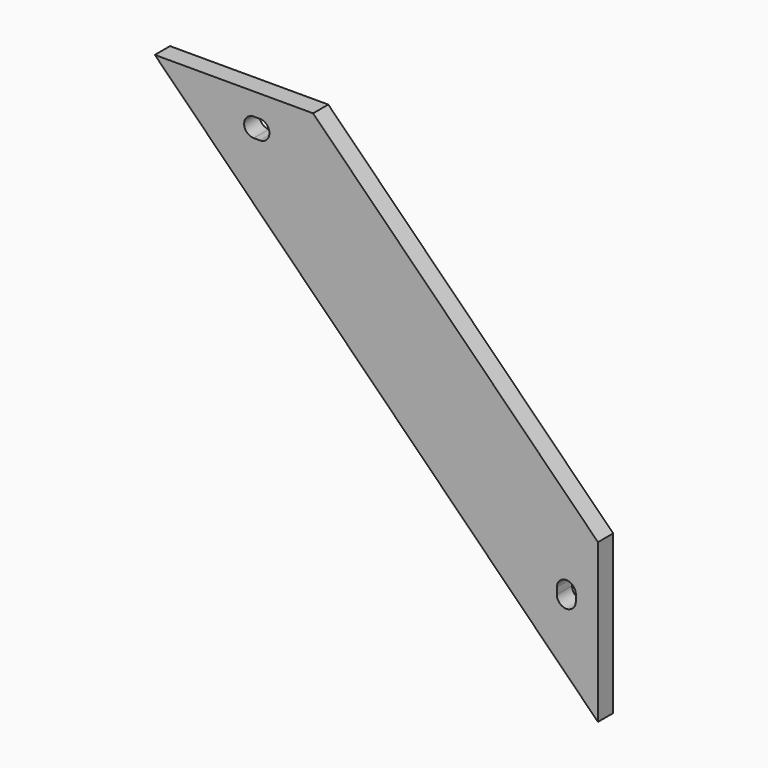
from build123d import *

# Parameters (mm, degrees)
F1_DEPTH = 6


with BuildPart() as f1:
    # F0 (on Front) → F1 (new body)
    with BuildSketch(Plane.XZ):
        Polygon((65.621033, -11.750089), (65.621033, 38.249911), (-24.378967, 128.249911), (-74.378967, 128.249911), align=None)
        with BuildLine():
            ThreePointArc((52.621032, 21.463115), (55.621032, 24.463115), (58.621032, 21.463115))
            Line((58.621032, 21.463115), (58.621032, 19.463115))
            ThreePointArc((58.621032, 19.463115), (55.621032, 16.463115), (52.621032, 19.463115))
            Line((52.621032, 19.463115), (52.621032, 21.463115))
        make_face(mode=Mode.SUBTRACT)
        with BuildLine():
            Line((-41.165764, 115.249911), (-43.165764, 115.249911))
            ThreePointArc((-43.165764, 115.249911), (-46.165764, 118.249911), (-43.165764, 121.249911))
            Line((-43.165764, 121.249911), (-41.165764, 121.249911))
            ThreePointArc((-41.165764, 121.249911), (-38.165764, 118.249911), (-41.165764, 115.249911))
        make_face(mode=Mode.SUBTRACT)
    extrude(amount=F1_DEPTH)


solid = f1.part
